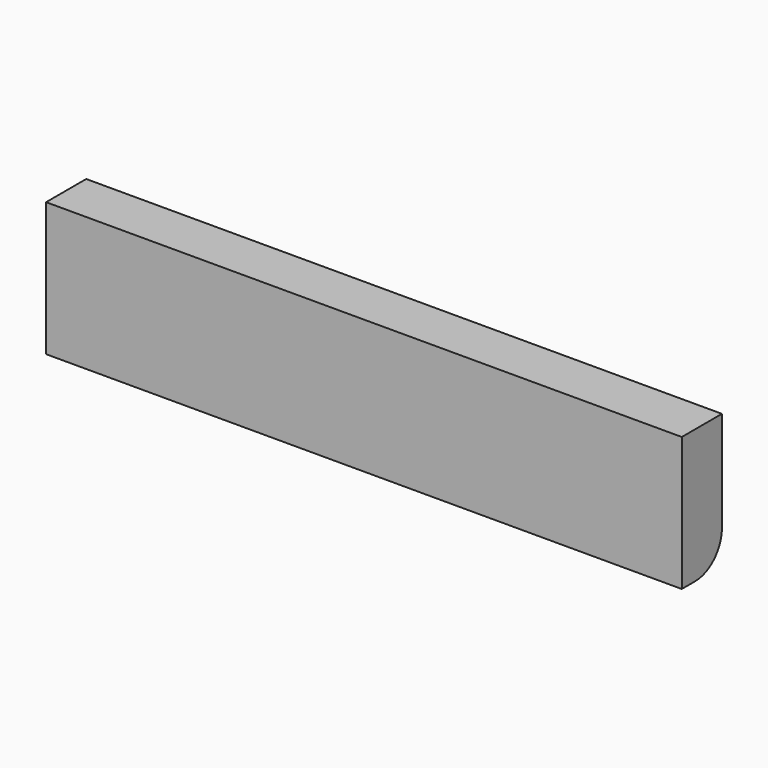
from build123d import *

# Parameters (mm, degrees)
F0_W     = 241.3
F0_H     = 50.8
F1_DEPTH = 19.05
F2_R     = 12.7


with BuildPart() as f1:
    # F0 (on Front) → F1 (new body)
    with BuildSketch(Plane.XZ):
        Rectangle(F0_W, F0_H)
    extrude(amount=F1_DEPTH)

    # F2
    f2_edges = [f1.edges().sort_by_distance(p)[0] for p in [
        (0, 0, -25.4),
    ]]
    fillet(f2_edges, radius=F2_R)


solid = f1.part
